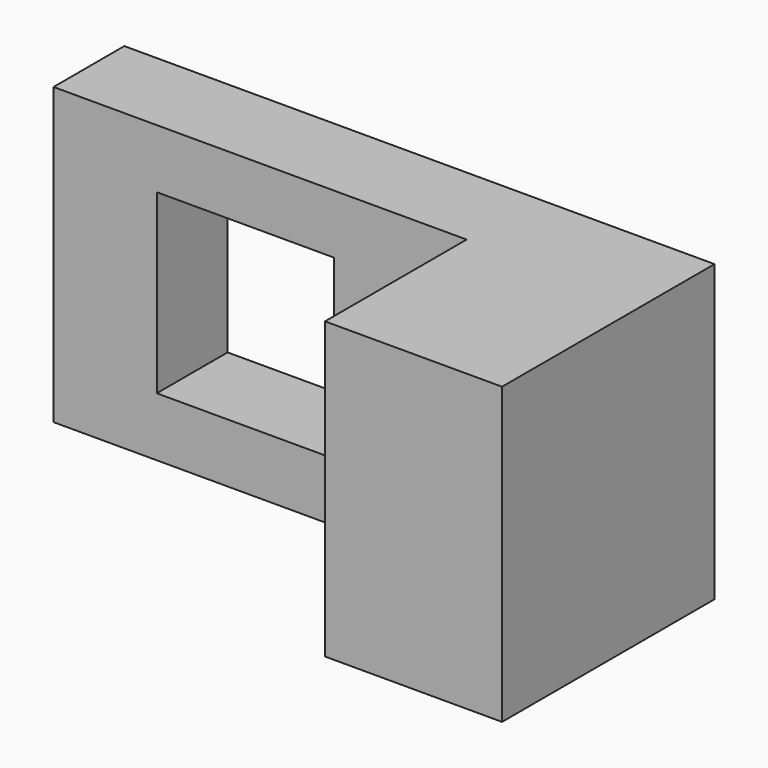
from build123d import *

# Parameters (mm, degrees)
F0_W     = 14
F0_H     = 10
F0_W_2   = 6
F0_H_2   = 6
F1_DEPTH = 3
F2_DEPTH = 9


with BuildPart() as f1:
    # F0 (on Front) → F1 (new body)
    with BuildSketch(Plane.XZ):
        with Locations((-3, 0)):
            Rectangle(F0_W, F0_H)
        with Locations((-3.5, 0)):
            Rectangle(F0_W_2, F0_H_2, mode=Mode.SUBTRACT)
    extrude(amount=F1_DEPTH)

    # F0 (on Front) → F2 (join)
    with BuildSketch(Plane.XZ):
        with Locations((7, 0)):
            Rectangle(F0_W_2, F0_H)
    extrude(amount=F2_DEPTH)


solid = f1.part
